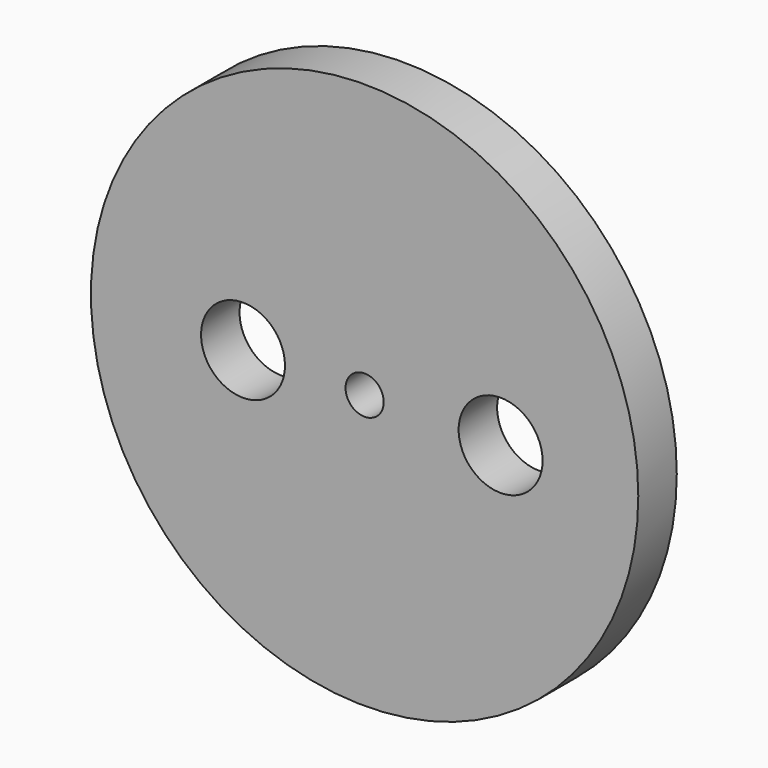
from build123d import *

# Parameters (mm, degrees)
F0_R     = 45.5
F2_DEPTH = 8
F1_R     = 3.175
F3_DEPTH = 8.001
F4_R     = 6.975
F5_DEPTH = 25


with BuildPart() as f2:
    # F0 (on Front) → F2 (new body)
    with BuildSketch(Plane.XZ):
        Circle(F0_R)
    extrude(amount=F2_DEPTH)

    # F1 (on Front) → F3 (cut, through all)
    with BuildSketch(Plane.XZ):
        Circle(F1_R)
    extrude(amount=F3_DEPTH, mode=Mode.SUBTRACT)

    # F4 (on Front) → F5 (cut)
    with BuildSketch(Plane.XZ):
        with Locations((-20.215824, 0)):
            Circle(F4_R)
        with Locations((22.608229, 0)):
            Circle(F4_R)
    extrude(amount=F5_DEPTH, mode=Mode.SUBTRACT)


solid = f2.part
